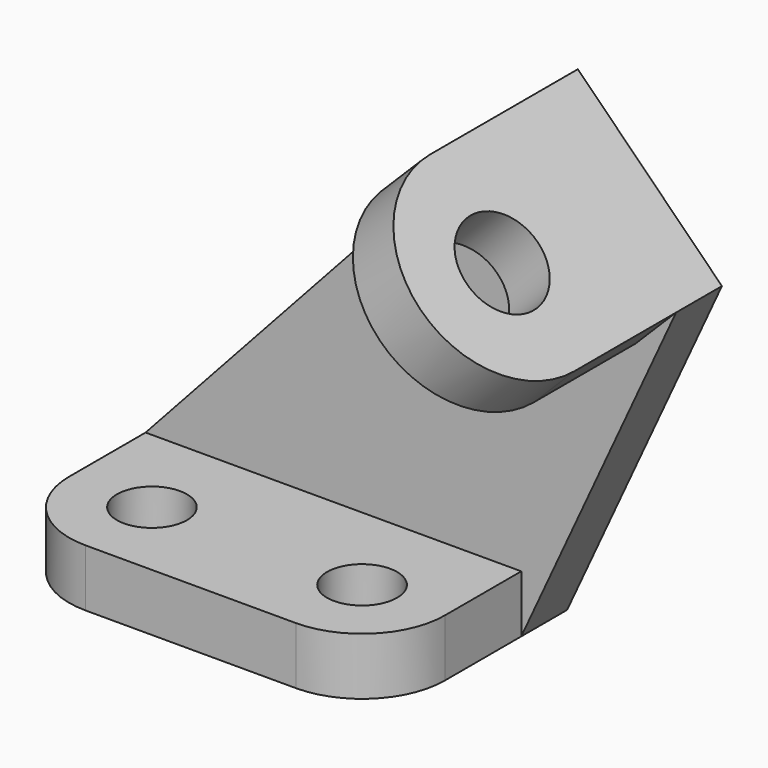
from build123d import *

# Parameters (mm, degrees)
F0_R     = 5.5
F1_DEPTH = 9
F3_DEPTH = 9
F4_R     = 7
F5_DEPTH = 9


with BuildPart() as f1:
    # F0 (on Top) → F1 (new body)
    with BuildSketch(Plane.XY):
        with BuildLine():
            Line((59, 0), (0, 0))
            Line((0, 0), (0, -24))
            ThreePointArc((0, -24), (3.807612, -33.192388), (13, -37))
            Line((13, -37), (46, -37))
            ThreePointArc((46, -37), (55.192388, -33.192388), (59, -24))
            Line((59, -24), (59, 0))
        make_face()
        with Locations((13, -24)):
            Circle(F0_R, mode=Mode.SUBTRACT)
        with Locations((46, -24)):
            Circle(F0_R, mode=Mode.SUBTRACT)
    extrude(amount=F1_DEPTH)

    # F2 (on face) → F3 (join)
    with BuildSketch(Plane(origin=(0, 0, 0), x_dir=(-1, 0, 0), z_dir=(0, 1, 0))):
        Polygon((-59, 9), (0, 9), (-60.686292, 75.313708), (-83.313708, 52.686292), (-59, 0), align=None)
    extrude(amount=-F3_DEPTH)

    # F4 (on face) → F5 (join)
    with BuildSketch(Plane(origin=(68, 0, 68), x_dir=(0, 1, 0), z_dir=(0.707107, 0, 0.707107))):
        with BuildLine():
            Line((-29, -21.656854), (0, -21.656854))
            Line((0, -21.656854), (0, 10.343146))
            Line((0, 10.343146), (-29, 10.343146))
            ThreePointArc((-29, 10.343146), (-45, -5.656854), (-29, -21.656854))
        make_face()
        with Locations((-29, -5.656854)):
            Circle(F4_R, mode=Mode.SUBTRACT)
    extrude(amount=-F5_DEPTH)


solid = f1.part
